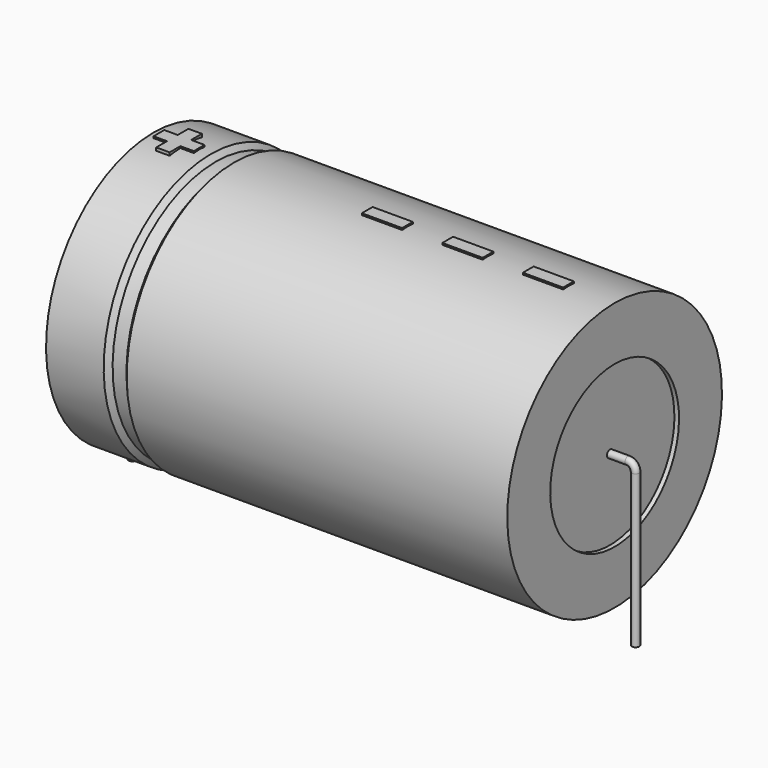
from build123d import *

# Parameters (mm, degrees)
SKETCH_R    = 0.45
SKETCH004_W = 4.8
SKETCH004_H = 1.6
PAD_DEPTH   = 16.16


with BuildPart() as sweep_body:
    # Sweep: sweep along a path in Sketch001
    with BuildLine(Plane.XZ) as sweep_path:
        Line((0, -3), (0, 15.2))
        ThreePointArc((0, 15.2), (0.263601, 15.836393), (0.899993, 16.1))
        Line((0.899993, 16.1), (59.1, 16.1))
        ThreePointArc((59.1, 16.1), (59.736396, 15.836396), (60, 15.2))
        Line((60, 15.2), (60, -3))
    # Sketch → Sweep (sweep)
    with BuildSketch(Plane.XY.offset(-2)):
        Circle(SKETCH_R)
    sweep(path=sweep_path.line)


with BuildPart() as revolution:
    # Sketch002 → Revolution (revolve)
    with BuildSketch(Plane.XZ):
        Polygon((2.5, 32.1), (2.5, 25.7), (57.5, 25.7), (57.5, 32.1), (12.125, 32.1), (11.575, 31.46), (9.925, 31.46), (9.375, 32.1), align=None)
    revolve(axis=Axis((6.97588, 0, 16.1), (1, 0, 0)))


with BuildPart() as revolution001:
    # Sketch003 → Revolution001 (revolve)
    with BuildSketch(Plane.XZ):
        Polygon((3.05, 31.46), (5.8, 31.46), (5.8, 17.7), (54.2, 17.7), (54.2, 31.46), (56.95, 31.46), (56.95, 16.1), (3.05, 16.1), align=None)
    revolve(axis=Axis((6.97588, 0, 16.1), (1, 0, 0)))


with BuildPart() as pad:
    # Sketch004 → Pad (new body)
    with BuildSketch(Plane.XY.offset(16.1)):
        with Locations((49.6, 0)):
            Rectangle(SKETCH004_W, SKETCH004_H)
        with Locations((40, 0)):
            Rectangle(SKETCH004_W, SKETCH004_H)
        with Locations((30.4, 0)):
            Rectangle(SKETCH004_W, SKETCH004_H)
        Polygon((4.76, 0.8), (3.16, 0.8), (3.16, -0.8), (4.76, -0.8), (4.76, -2.4), (6.36, -2.4), (6.36, -0.8), (7.96, -0.8), (7.96, 0.8), (6.36, 0.8), (6.36, 2.4), (4.76, 2.4), align=None)
    extrude(amount=PAD_DEPTH)


solid = Compound([sweep_body.part, revolution.part, revolution001.part, pad.part])
